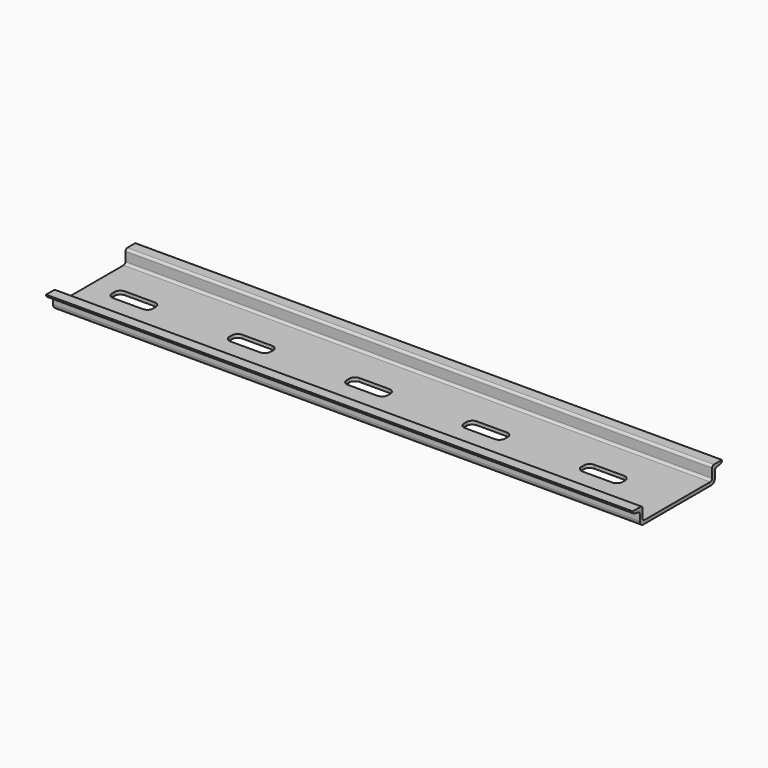
from build123d import *

# Parameters (mm, degrees)
F1_DEPTH = 254
F2_R     = 1
F4_DEPTH = 25.4


with BuildPart() as f1:
    # F0 (on Right) → F1 (new body)
    with BuildSketch(Plane.YZ):
        with BuildLine():
            ThreePointArc((0, 2), (0.585786, 0.585786), (2, 0))
            Line((2, 0), (38.64, 0))
            ThreePointArc((38.64, 0), (40.054214, 0.585786), (40.64, 2))
            Line((40.64, 2), (40.64, 5.556))
            Line((40.64, 5.556), (44.45, 6.366))
            Line((44.45, 6.366), (44.45, 7.366))
            Line((44.45, 7.366), (40.64, 7.366))
            Line((40.64, 7.366), (39.14, 7.366))
            Line((39.14, 7.366), (39.14, 2.5))
            ThreePointArc((39.14, 2.5), (38.847107, 1.792893), (38.14, 1.5))
            Line((38.14, 1.5), (2.5, 1.5))
            ThreePointArc((2.5, 1.5), (1.792893, 1.792893), (1.5, 2.5))
            Line((1.5, 2.5), (1.5, 7.366))
            Line((1.5, 7.366), (0, 7.366))
            Line((0, 7.366), (-3.81, 7.366))
            Line((-3.81, 7.366), (-3.81, 6.366))
            Line((-3.81, 6.366), (0, 5.556))
            Line((0, 5.556), (0, 2))
        make_face()
    extrude(amount=F1_DEPTH)

    # F2
    f2_edges = [f1.edges().sort_by_distance(p)[0] for p in [
        (127, 39.14, 7.366),
        (127, 1.5, 7.366),
        (127, 0, 5.556),
        (127, 40.64, 5.556),
        (127, 44.45, 6.366),
        (127, -3.81, 6.366),
    ]]
    fillet(f2_edges, radius=F2_R)

    # F3 (on face) → F4 (cut)
    with BuildSketch(Plane.XY.offset(1.5)):
        with BuildLine():
            Line((12.323191, 17.145), (25.103191, 17.145))
            ThreePointArc((25.103191, 17.145), (26.870958, 17.877233), (27.603191, 19.645))
            Line((27.603191, 19.645), (27.603191, 20.995))
            ThreePointArc((27.603191, 20.995), (26.870958, 22.762767), (25.103191, 23.495))
            Line((25.103191, 23.495), (12.323191, 23.495))
            ThreePointArc((12.323191, 23.495), (10.555424, 22.762767), (9.823191, 20.995))
            Line((9.823191, 20.995), (9.823191, 19.645))
            ThreePointArc((9.823191, 19.645), (10.555424, 17.877233), (12.323191, 17.145))
        make_face()
        with BuildLine():
            ThreePointArc((78.403191, 20.995), (77.670958, 22.762767), (75.903191, 23.495))
            Line((75.903191, 23.495), (63.123191, 23.495))
            ThreePointArc((63.123191, 23.495), (61.355424, 22.762767), (60.623191, 20.995))
            Line((60.623191, 20.995), (60.623191, 19.645))
            ThreePointArc((60.623191, 19.645), (61.355424, 17.877233), (63.123191, 17.145))
            Line((63.123191, 17.145), (75.903191, 17.145))
            ThreePointArc((75.903191, 17.145), (77.670958, 17.877233), (78.403191, 19.645))
            Line((78.403191, 19.645), (78.403191, 20.995))
        make_face()
        with BuildLine():
            ThreePointArc((129.203191, 20.995), (128.470958, 22.762767), (126.703191, 23.495))
            Line((126.703191, 23.495), (113.923191, 23.495))
            ThreePointArc((113.923191, 23.495), (112.155424, 22.762767), (111.423191, 20.995))
            Line((111.423191, 20.995), (111.423191, 19.645))
            ThreePointArc((111.423191, 19.645), (112.155424, 17.877233), (113.923191, 17.145))
            Line((113.923191, 17.145), (126.703191, 17.145))
            ThreePointArc((126.703191, 17.145), (128.470958, 17.877233), (129.203191, 19.645))
            Line((129.203191, 19.645), (129.203191, 20.995))
        make_face()
        with BuildLine():
            ThreePointArc((180.003191, 20.995), (179.270958, 22.762767), (177.503191, 23.495))
            Line((177.503191, 23.495), (164.723191, 23.495))
            ThreePointArc((164.723191, 23.495), (162.955424, 22.762767), (162.223191, 20.995))
            Line((162.223191, 20.995), (162.223191, 19.645))
            ThreePointArc((162.223191, 19.645), (162.955424, 17.877233), (164.723191, 17.145))
            Line((164.723191, 17.145), (177.503191, 17.145))
            ThreePointArc((177.503191, 17.145), (179.270958, 17.877233), (180.003191, 19.645))
            Line((180.003191, 19.645), (180.003191, 20.995))
        make_face()
        with BuildLine():
            ThreePointArc((230.803191, 20.995), (230.070958, 22.762767), (228.303191, 23.495))
            Line((228.303191, 23.495), (215.523191, 23.495))
            ThreePointArc((215.523191, 23.495), (213.755424, 22.762767), (213.023191, 20.995))
            Line((213.023191, 20.995), (213.023191, 19.645))
            ThreePointArc((213.023191, 19.645), (213.755424, 17.877233), (215.523191, 17.145))
            Line((215.523191, 17.145), (228.303191, 17.145))
            ThreePointArc((228.303191, 17.145), (230.070958, 17.877233), (230.803191, 19.645))
            Line((230.803191, 19.645), (230.803191, 20.995))
        make_face()
    extrude(amount=-F4_DEPTH, mode=Mode.SUBTRACT)


solid = f1.part
